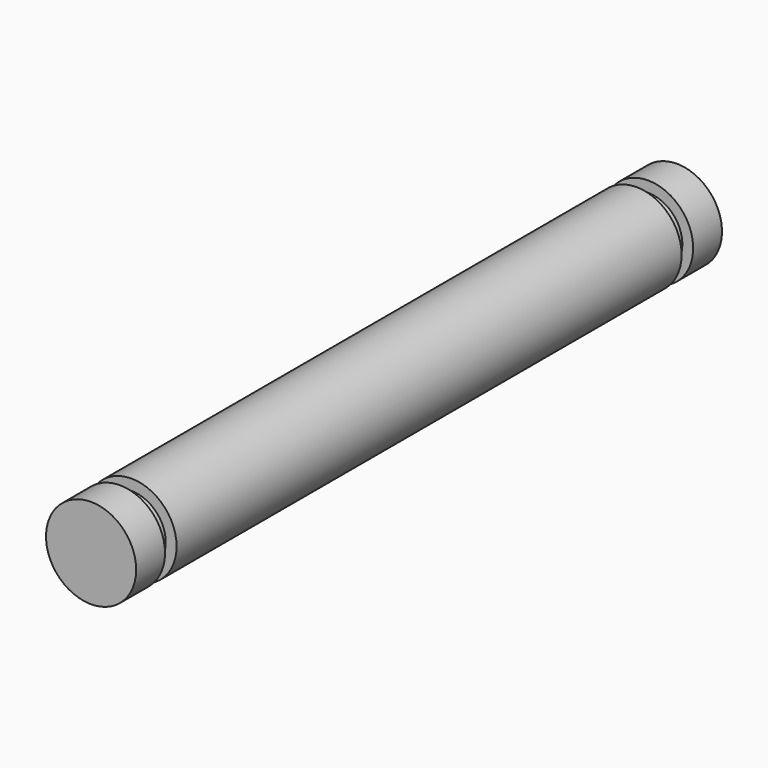
from build123d import *

# Parameters (mm, degrees)
F0_R     = 1.5875
F1_DEPTH = 11.1125
F2_R     = 1.2065
F3_DEPTH = 0.508
F4_R     = 1.5875
F4_R_2   = 1.2065
F5_DEPTH = 1.27
F6_R     = 1.2065
F7_DEPTH = 0.508
F8_R     = 1.5875
F8_R_2   = 1.2065
F9_DEPTH = 1.27


with BuildPart() as f1:
    # F0 (on Front) → F1 (new body, symmetric)
    with BuildSketch(Plane.XZ):
        Circle(F0_R)
    extrude(amount=F1_DEPTH, both=True)

    # F2 (on face) → F3 (join)
    with BuildSketch(Plane.XZ.offset(11.1125)):
        Circle(F2_R)
    extrude(amount=F3_DEPTH)

    # F4 (on face) → F5 (join)
    with BuildSketch(Plane.XZ.offset(11.6205)):
        Circle(F4_R)
        Circle(F4_R_2, mode=Mode.SUBTRACT)
        Circle(F4_R_2)
    extrude(amount=F5_DEPTH)

    # F6 (on face) → F7 (join)
    with BuildSketch(Plane(origin=(0, 11.1125, 0), x_dir=(-1, 0, 0), z_dir=(0, 1, 0))):
        Circle(F6_R)
    extrude(amount=F7_DEPTH)

    # F8 (on face) → F9 (join)
    with BuildSketch(Plane(origin=(0, 11.6205, 0), x_dir=(-1, 0, 0), z_dir=(0, 1, 0))):
        Circle(F8_R)
        Circle(F8_R_2, mode=Mode.SUBTRACT)
        Circle(F8_R_2)
    extrude(amount=F9_DEPTH)


solid = f1.part
